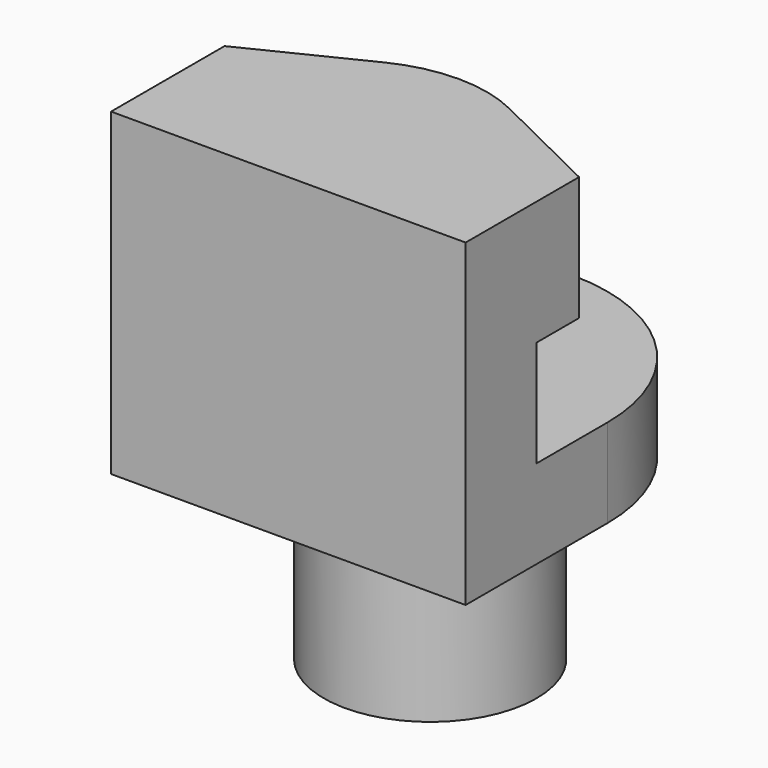
from build123d import *

# Parameters (mm, degrees)
PAD_DEPTH         = 18
PAD001_DEPTH      = 5
SKETCH002_W       = 13.704409
SKETCH002_H       = 6
POCKET_DEPTH      = 10.001
POCKET_DEPTH_BACK = -10.001
SKETCH003_R       = 6
PAD002_DEPTH      = 10
SKETCH004_R       = 1.5
POCKET001_DEPTH   = 10


with BuildPart() as part:
    # Sketch → Pad (new body)
    with BuildSketch(Plane.XY):
        with BuildLine():
            Line((-10, 0), (10, 0))
            Line((10, 0), (10, 8))
            Line((10, 8), (3.527972, 11.180071))
            ThreePointArc((3.527972, 11.180071), (0, 12), (-3.527972, 11.180071))
            Line((-3.527972, 11.180071), (-10, 8))
            Line((-10, 8), (-10, 0))
        make_face()
    extrude(amount=PAD_DEPTH)

    # Sketch001 → Pad001 (join)
    with BuildSketch(Plane.XY):
        with BuildLine():
            Line((-10, 0), (10, 0))
            Line((10, 0), (10, 10))
            ThreePointArc((10, 10), (0, 20), (-10, 10))
            Line((-10, 10), (-10, 0))
        make_face()
    extrude(amount=PAD001_DEPTH)

    # Sketch002 → Pocket (cut, two sides)
    with BuildSketch(Plane.YZ) as pocket_sk:
        with Locations((11.852204, 8)):
            Rectangle(SKETCH002_W, SKETCH002_H)
    extrude(amount=-POCKET_DEPTH, mode=Mode.SUBTRACT)
    extrude(pocket_sk.sketch, amount=-POCKET_DEPTH_BACK, mode=Mode.SUBTRACT)

    # Sketch003 (on Face4 of Pocket) → Pad002 (join)
    with BuildSketch(Plane(origin=(0, 0, 0), x_dir=(1, 0, 0), z_dir=(0, 0, -1))):
        with Locations((0, -10)):
            Circle(SKETCH003_R)
    extrude(amount=PAD002_DEPTH)

    # Sketch004 (on Face14 of Pad002) → Pocket001 (cut)
    with BuildSketch(Plane(origin=(0, 0, -10), x_dir=(1, 0, 0), z_dir=(0, 0, -1))):
        with Locations((0, -10)):
            Circle(SKETCH004_R)
    extrude(amount=-POCKET001_DEPTH, mode=Mode.SUBTRACT)


solid = part.part
